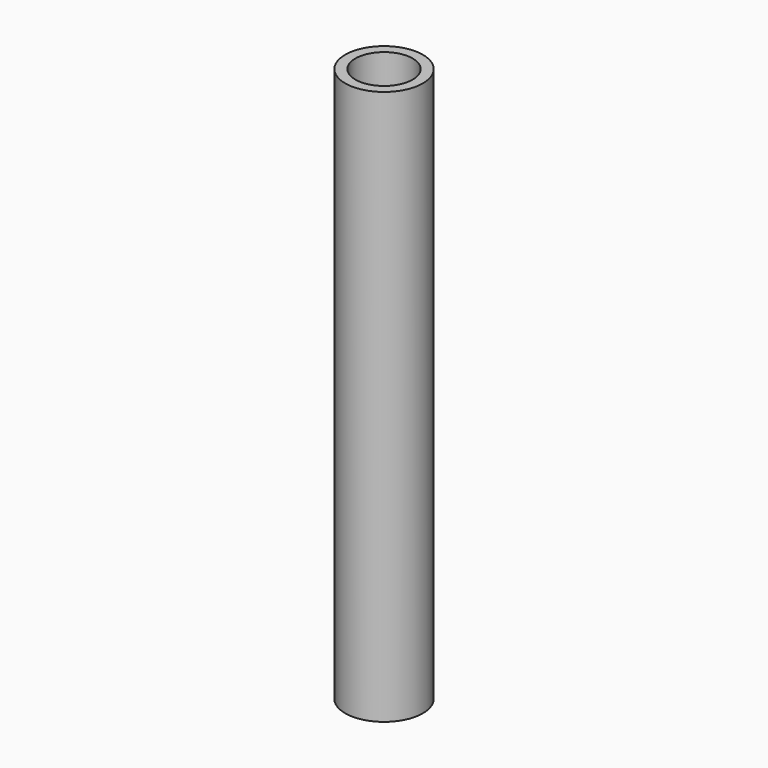
from build123d import *

# Parameters (mm, degrees)
F1_R     = 10.668
F1_R_2   = 7.874
F2_DEPTH = 152.4


with BuildPart() as f2:
    # F1 (on face) → F2 (new body)
    with BuildSketch(Plane.XY):
        with Locations((72.060592, 47.027521)):
            Circle(F1_R)
        with Locations((72.060592, 47.027521)):
            Circle(F1_R_2, mode=Mode.SUBTRACT)
    extrude(amount=-F2_DEPTH)


solid = f2.part
